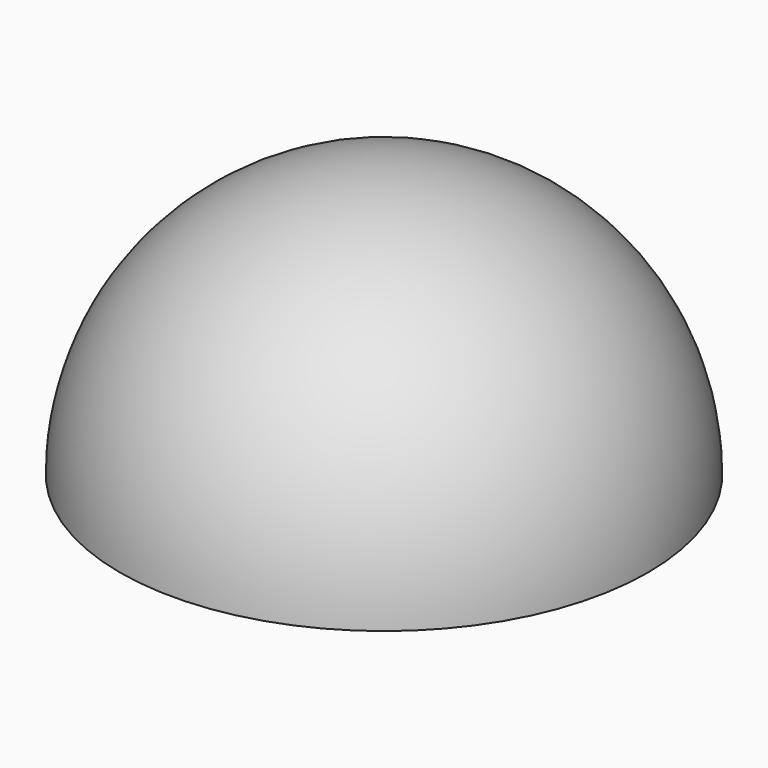
from build123d import *

# Parameters (mm, degrees)
F1_ANGLE = 180


with BuildPart() as f1:
    # F0 (on Top) → F1 (revolve)
    with BuildSketch(Plane.XY):
        with BuildLine():
            ThreePointArc((29.360192, 0), (0, 29.360192), (-29.360192, 0))
            Line((-29.360192, 0), (29.360192, 0))
        make_face()
        with BuildLine():
            ThreePointArc((29.360192, 0), (0, 29.360192), (-29.360192, 0))
            Line((-29.360192, 0), (29.360192, 0))
        make_face()
    revolve(axis=Axis((0, 0, 0), (1, 0, 0)), revolution_arc=F1_ANGLE)


solid = f1.part
